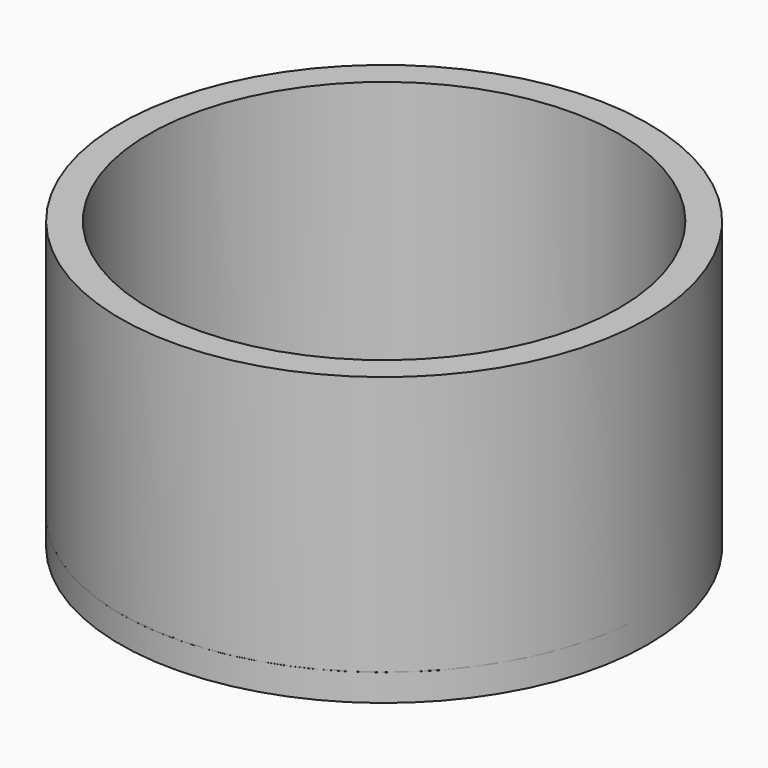
from build123d import *

# Parameters (mm, degrees)
SKETCH_R      = 92
PAD_DEPTH     = 10
THICKNESS_T   = -2
FILLET_R      = 5
FILLET001_R   = 0.6
SKETCH001_R   = 92
SKETCH001_R_2 = 82
PAD001_DEPTH  = 100


with BuildPart() as body:
    # Sketch → Pad (new body)
    with BuildSketch(Plane.XY):
        Circle(SKETCH_R)
    extrude(amount=PAD_DEPTH)

    # Thickness
    thickness_openings = [body.faces().sort_by_distance(p)[0] for p in [
        (0, 0, 10),
    ]]
    offset(amount=THICKNESS_T, openings=thickness_openings)

    # Fillet
    fillet_edges = [body.edges().sort_by_distance(p)[0] for p in [
        (-90, 0, 2),
    ]]
    fillet(fillet_edges, radius=FILLET_R)

    # Fillet001
    fillet001_edges = [body.edges().sort_by_distance(p)[0] for p in [
        (-92, 0, 10),
        (-90, 0, 10),
    ]]
    fillet(fillet001_edges, radius=FILLET001_R)


with BuildPart() as body001:
    # Sketch001 → Pad001 (new body)
    with BuildSketch(Plane.XY):
        Circle(SKETCH001_R)
        Circle(SKETCH001_R_2, mode=Mode.SUBTRACT)
    extrude(amount=PAD001_DEPTH)


solid = Compound([body.part, body001.part])
